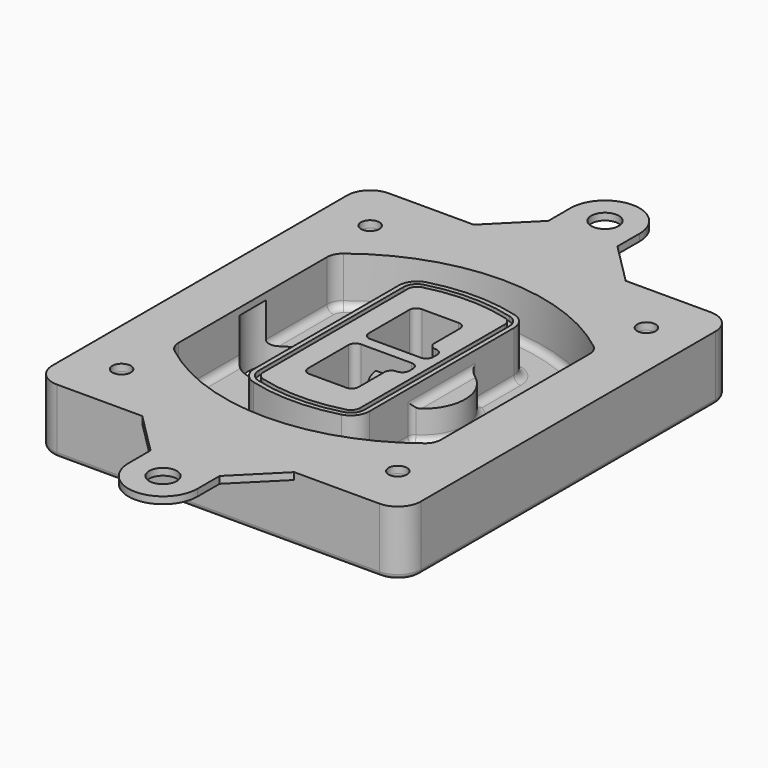
from build123d import *

# Parameters (mm, degrees)
F0_R      = 4
F1_DEPTH  = 25
F2_DEPTH  = 3
F3_DEPTH  = 18
F5_DEPTH  = 21
F6_DEPTH  = 2
F8_DEPTH  = 20
F9_DEPTH  = 16
F10_DEPTH = 25
F7_R      = 6
F7_R_2    = 4
F11_DEPTH = 6
F13_DEPTH = 9
F14_R     = 3
F15_R     = 2
F16_R     = 4
F16_R_2   = 6
F17_DEPTH = 3


with BuildPart() as f1:
    # F0 (on Top) → F1 (new body)
    with BuildSketch(Plane.XY):
        with BuildLine():
            ThreePointArc((-80, -80), (-77.0710678119, -87.0710678119), (-70, -90))
            Line((-70, -90), (70, -90))
            ThreePointArc((70, -90), (77.0710678119, -87.0710678119), (80, -80))
            Line((80, -80), (80, 80))
            ThreePointArc((80, 80), (77.0710678119, 87.0710678119), (70, 90))
            Line((70, 90), (-70, 90))
            ThreePointArc((-70, 90), (-77.0710678119, 87.0710678119), (-80, 80))
            Line((-80, 80), (-80, -80))
        make_face()
        with Locations((-60, -67.5)):
            Circle(F0_R, mode=Mode.SUBTRACT)
        with Locations((60, -67.5)):
            Circle(F0_R, mode=Mode.SUBTRACT)
        with Locations((-60, 67.5)):
            Circle(F0_R, mode=Mode.SUBTRACT)
        with BuildLine():
            ThreePointArc((-64, 40.2934422872), (-62.5820384798, 46.4328484224), (-58.6153846154, 51.3286200352))
            ThreePointArc((-58.6153846154, 51.3286200352), (0, 71.5), (58.6153846154, 51.3286200352))
            ThreePointArc((58.6153846154, 51.3286200352), (62.5820384798, 46.4328484224), (64, 40.2934422872))
            Line((64, 40.2934422872), (64, -40.2934422872))
            ThreePointArc((64, -40.2934422872), (62.5820384798, -46.4328484224), (58.6153846154, -51.3286200352))
            ThreePointArc((58.6153846154, -51.3286200352), (0, -71.5), (-58.6153846154, -51.3286200352))
            ThreePointArc((-58.6153846154, -51.3286200352), (-62.5820384798, -46.4328484224), (-64, -40.2934422872))
            Line((-64, -40.2934422872), (-64, 40.2934422872))
        make_face(mode=Mode.SUBTRACT)
        with Locations((60, 67.5)):
            Circle(F0_R, mode=Mode.SUBTRACT)
        with BuildLine():
            ThreePointArc((58.6153846154, 51.3286200352), (0, 71.5), (-58.6153846154, 51.3286200352))
            ThreePointArc((-58.6153846154, 51.3286200352), (-62.5820384798, 46.4328484224), (-64, 40.2934422872))
            Line((-64, 40.2934422872), (-64, -40.2934422872))
            ThreePointArc((-64, -40.2934422872), (-62.5820384798, -46.4328484224), (-58.6153846154, -51.3286200352))
            ThreePointArc((-58.6153846154, -51.3286200352), (0, -71.5), (58.6153846154, -51.3286200352))
            ThreePointArc((58.6153846154, -51.3286200352), (62.5820384798, -46.4328484224), (64, -40.2934422872))
            Line((64, -40.2934422872), (64, 40.2934422872))
            ThreePointArc((64, 40.2934422872), (62.5820384798, 46.4328484224), (58.6153846154, 51.3286200352))
        make_face()
        with BuildLine():
            Line((-60, -40.2934422872), (-60, 40.2934422872))
            ThreePointArc((-60, 40.2934422872), (-58.9871703427, 44.6787323838), (-56.1538461538, 48.1757121072))
            ThreePointArc((-56.1538461538, 48.1757121072), (0, 67.5), (56.1538461538, 48.1757121072))
            ThreePointArc((56.1538461538, 48.1757121072), (58.9871703427, 44.6787323838), (60, 40.2934422872))
            Line((60, 40.2934422872), (60, -40.2934422872))
            ThreePointArc((60, -40.2934422872), (58.9871703427, -44.6787323838), (56.1538461538, -48.1757121072))
            ThreePointArc((56.1538461538, -48.1757121072), (0, -67.5), (-56.1538461538, -48.1757121072))
            ThreePointArc((-56.1538461538, -48.1757121072), (-58.9871703427, -44.6787323838), (-60, -40.2934422872))
        make_face(mode=Mode.SUBTRACT)
        with BuildLine():
            ThreePointArc((-56.1538461538, 48.1757121072), (-58.9871703427, 44.6787323838), (-60, 40.2934422872))
            Line((-60, 40.2934422872), (-60, -40.2934422872))
            ThreePointArc((-60, -40.2934422872), (-58.9871703427, -44.6787323838), (-56.1538461538, -48.1757121072))
            ThreePointArc((-56.1538461538, -48.1757121072), (0, -67.5), (56.1538461538, -48.1757121072))
            ThreePointArc((56.1538461538, -48.1757121072), (58.9871703427, -44.6787323838), (60, -40.2934422872))
            Line((60, -40.2934422872), (60, 40.2934422872))
            ThreePointArc((60, 40.2934422872), (58.9871703427, 44.6787323838), (56.1538461538, 48.1757121072))
            ThreePointArc((56.1538461538, 48.1757121072), (0, 67.5), (-56.1538461538, 48.1757121072))
        make_face()
        with BuildLine():
            ThreePointArc((54.3076923077, 45.8110311612), (56.2910192399, 43.3631453548), (57, 40.2934422872))
            Line((57, 40.2934422872), (57, -40.2934422872))
            ThreePointArc((57, -40.2934422872), (56.2910192399, -43.3631453548), (54.3076923077, -45.8110311612))
            ThreePointArc((54.3076923077, -45.8110311612), (0, -64.5), (-54.3076923077, -45.8110311612))
            ThreePointArc((-54.3076923077, -45.8110311612), (-56.2910192399, -43.3631453548), (-57, -40.2934422872))
            Line((-57, -40.2934422872), (-57, 40.2934422872))
            ThreePointArc((-57, 40.2934422872), (-56.2910192399, 43.3631453548), (-54.3076923077, 45.8110311612))
            ThreePointArc((-54.3076923077, 45.8110311612), (0, 64.5), (54.3076923077, 45.8110311612))
        make_face(mode=Mode.SUBTRACT)
        with BuildLine():
            Line((57, -40.2934422872), (57, 40.2934422872))
            ThreePointArc((57, 40.2934422872), (56.2910192399, 43.3631453548), (54.3076923077, 45.8110311612))
            ThreePointArc((54.3076923077, 45.8110311612), (0, 64.5), (-54.3076923077, 45.8110311612))
            ThreePointArc((-54.3076923077, 45.8110311612), (-56.2910192399, 43.3631453548), (-57, 40.2934422872))
            Line((-57, 40.2934422872), (-57, -40.2934422872))
            ThreePointArc((-57, -40.2934422872), (-56.2910192399, -43.3631453548), (-54.3076923077, -45.8110311612))
            ThreePointArc((-54.3076923077, -45.8110311612), (0, -64.5), (54.3076923077, -45.8110311612))
            ThreePointArc((54.3076923077, -45.8110311612), (56.2910192399, -43.3631453548), (57, -40.2934422872))
        make_face()
    extrude(amount=-F1_DEPTH)

    # F0 (on Top) → F2 (join)
    with BuildSketch(Plane.XY):
        with BuildLine():
            ThreePointArc((-56.1538461538, 48.1757121072), (-58.9871703427, 44.6787323838), (-60, 40.2934422872))
            Line((-60, 40.2934422872), (-60, -40.2934422872))
            ThreePointArc((-60, -40.2934422872), (-58.9871703427, -44.6787323838), (-56.1538461538, -48.1757121072))
            ThreePointArc((-56.1538461538, -48.1757121072), (0, -67.5), (56.1538461538, -48.1757121072))
            ThreePointArc((56.1538461538, -48.1757121072), (58.9871703427, -44.6787323838), (60, -40.2934422872))
            Line((60, -40.2934422872), (60, 40.2934422872))
            ThreePointArc((60, 40.2934422872), (58.9871703427, 44.6787323838), (56.1538461538, 48.1757121072))
            ThreePointArc((56.1538461538, 48.1757121072), (0, 67.5), (-56.1538461538, 48.1757121072))
        make_face()
        with BuildLine():
            ThreePointArc((54.3076923077, 45.8110311612), (56.2910192399, 43.3631453548), (57, 40.2934422872))
            Line((57, 40.2934422872), (57, -40.2934422872))
            ThreePointArc((57, -40.2934422872), (56.2910192399, -43.3631453548), (54.3076923077, -45.8110311612))
            ThreePointArc((54.3076923077, -45.8110311612), (0, -64.5), (-54.3076923077, -45.8110311612))
            ThreePointArc((-54.3076923077, -45.8110311612), (-56.2910192399, -43.3631453548), (-57, -40.2934422872))
            Line((-57, -40.2934422872), (-57, 40.2934422872))
            ThreePointArc((-57, 40.2934422872), (-56.2910192399, 43.3631453548), (-54.3076923077, 45.8110311612))
            ThreePointArc((-54.3076923077, 45.8110311612), (0, 64.5), (54.3076923077, 45.8110311612))
        make_face(mode=Mode.SUBTRACT)
    extrude(amount=F2_DEPTH)

    # F0 (on Top) → F3 (cut)
    with BuildSketch(Plane.XY):
        with BuildLine():
            Line((57, -40.2934422872), (57, 40.2934422872))
            ThreePointArc((57, 40.2934422872), (56.2910192399, 43.3631453548), (54.3076923077, 45.8110311612))
            ThreePointArc((54.3076923077, 45.8110311612), (0, 64.5), (-54.3076923077, 45.8110311612))
            ThreePointArc((-54.3076923077, 45.8110311612), (-56.2910192399, 43.3631453548), (-57, 40.2934422872))
            Line((-57, 40.2934422872), (-57, -40.2934422872))
            ThreePointArc((-57, -40.2934422872), (-56.2910192399, -43.3631453548), (-54.3076923077, -45.8110311612))
            ThreePointArc((-54.3076923077, -45.8110311612), (0, -64.5), (54.3076923077, -45.8110311612))
            ThreePointArc((54.3076923077, -45.8110311612), (56.2910192399, -43.3631453548), (57, -40.2934422872))
        make_face()
    extrude(amount=-F3_DEPTH, mode=Mode.SUBTRACT)

    # F4 (on face) → F5 (join, through all)
    with BuildSketch(Plane.XY.offset(3)):
        with BuildLine():
            ThreePointArc((-25, -39.2465276821), (-23.3511545998, -44.1109737193), (-19.0842911877, -46.9702398883))
            ThreePointArc((-19.0842911877, -46.9702398883), (0, -49.5), (19.0842911877, -46.9702398883))
            ThreePointArc((19.0842911877, -46.9702398883), (23.3511545998, -44.1109737193), (25, -39.2465276821))
            Line((25, -39.2465276821), (25, 39.2465276821))
            ThreePointArc((25, 39.2465276821), (23.3511545998, 44.1109737193), (19.0842911877, 46.9702398883))
            ThreePointArc((19.0842911877, 46.9702398883), (0, 49.5), (-19.0842911877, 46.9702398883))
            ThreePointArc((-19.0842911877, 46.9702398883), (-23.3511545998, 44.1109737193), (-25, 39.2465276821))
            Line((-25, 39.2465276821), (-25, -39.2465276821))
        make_face()
        with BuildLine():
            ThreePointArc((18.5632183908, 45.0393118368), (21.7633659499, 42.89486221), (23, 39.2465276821))
            Line((23, 39.2465276821), (23, -39.2465276821))
            ThreePointArc((23, -39.2465276821), (21.7633659499, -42.89486221), (18.5632183908, -45.0393118368))
            ThreePointArc((18.5632183908, -45.0393118368), (0, -47.5), (-18.5632183908, -45.0393118368))
            ThreePointArc((-18.5632183908, -45.0393118368), (-21.7633659499, -42.89486221), (-23, -39.2465276821))
            Line((-23, -39.2465276821), (-23, 39.2465276821))
            ThreePointArc((-23, 39.2465276821), (-21.7633659499, 42.89486221), (-18.5632183908, 45.0393118368))
            ThreePointArc((-18.5632183908, 45.0393118368), (0, 47.5), (18.5632183908, 45.0393118368))
        make_face(mode=Mode.SUBTRACT)
        with BuildLine():
            Line((23, -39.2465276821), (23, 39.2465276821))
            ThreePointArc((23, 39.2465276821), (21.7633659499, 42.89486221), (18.5632183908, 45.0393118368))
            ThreePointArc((18.5632183908, 45.0393118368), (0, 47.5), (-18.5632183908, 45.0393118368))
            ThreePointArc((-18.5632183908, 45.0393118368), (-21.7633659499, 42.89486221), (-23, 39.2465276821))
            Line((-23, 39.2465276821), (-23, -39.2465276821))
            ThreePointArc((-23, -39.2465276821), (-21.7633659499, -42.89486221), (-18.5632183908, -45.0393118368))
            ThreePointArc((-18.5632183908, -45.0393118368), (0, -47.5), (18.5632183908, -45.0393118368))
            ThreePointArc((18.5632183908, -45.0393118368), (21.7633659499, -42.89486221), (23, -39.2465276821))
        make_face()
        with BuildLine():
            ThreePointArc((18.0421455939, 43.1083837852), (20.1755772999, 41.6787507007), (21, 39.2465276821))
            Line((21, 39.2465276821), (21, -39.2465276821))
            ThreePointArc((21, -39.2465276821), (20.1755772999, -41.6787507007), (18.0421455939, -43.1083837852))
            ThreePointArc((18.0421455939, -43.1083837852), (0, -45.5), (-18.0421455939, -43.1083837852))
            ThreePointArc((-18.0421455939, -43.1083837852), (-20.1755772999, -41.6787507007), (-21, -39.2465276821))
            Line((-21, -39.2465276821), (-21, 39.2465276821))
            ThreePointArc((-21, 39.2465276821), (-20.1755772999, 41.6787507007), (-18.0421455939, 43.1083837852))
            ThreePointArc((-18.0421455939, 43.1083837852), (0, 45.5), (18.0421455939, 43.1083837852))
        make_face(mode=Mode.SUBTRACT)
        with BuildLine():
            Line((21, -39.2465276821), (21, 39.2465276821))
            ThreePointArc((21, 39.2465276821), (20.1755772999, 41.6787507007), (18.0421455939, 43.1083837852))
            ThreePointArc((18.0421455939, 43.1083837852), (0, 45.5), (-18.0421455939, 43.1083837852))
            ThreePointArc((-18.0421455939, 43.1083837852), (-20.1755772999, 41.6787507007), (-21, 39.2465276821))
            Line((-21, 39.2465276821), (-21, -39.2465276821))
            ThreePointArc((-21, -39.2465276821), (-20.1755772999, -41.6787507007), (-18.0421455939, -43.1083837852))
            ThreePointArc((-18.0421455939, -43.1083837852), (0, -45.5), (18.0421455939, -43.1083837852))
            ThreePointArc((18.0421455939, -43.1083837852), (20.1755772999, -41.6787507007), (21, -39.2465276821))
        make_face()
        with BuildLine():
            Line((-8, -2.5), (14, -2.5))
            ThreePointArc((14, -2.5), (16.1213203436, -3.3786796564), (17, -5.5))
            Line((17, -5.5), (17, -7.5))
            ThreePointArc((17, -7.5), (16.1213203436, -9.6213203436), (14, -10.5))
            ThreePointArc((14, -10.5), (11.8786796564, -11.3786796564), (11, -13.5))
            Line((11, -13.5), (11, -27.5))
            ThreePointArc((11, -27.5), (10.1213203436, -29.6213203436), (8, -30.5))
            Line((8, -30.5), (-8, -30.5))
            ThreePointArc((-8, -30.5), (-10.1213203436, -29.6213203436), (-11, -27.5))
            Line((-11, -27.5), (-11, -5.5))
            ThreePointArc((-11, -5.5), (-10.1213203436, -3.3786796564), (-8, -2.5))
        make_face(mode=Mode.SUBTRACT)
        with BuildLine():
            ThreePointArc((-8, 2.5), (-10.1213203436, 3.3786796564), (-11, 5.5))
            Line((-11, 5.5), (-11, 27.5))
            ThreePointArc((-11, 27.5), (-10.1213203436, 29.6213203436), (-8, 30.5))
            Line((-8, 30.5), (8, 30.5))
            ThreePointArc((8, 30.5), (10.1213203436, 29.6213203436), (11, 27.5))
            Line((11, 27.5), (11, 13.5))
            ThreePointArc((11, 13.5), (11.8786796564, 11.3786796564), (14, 10.5))
            ThreePointArc((14, 10.5), (16.1213203436, 9.6213203436), (17, 7.5))
            Line((17, 7.5), (17, 5.5))
            ThreePointArc((17, 5.5), (16.1213203436, 3.3786796564), (14, 2.5))
            Line((14, 2.5), (-8, 2.5))
        make_face(mode=Mode.SUBTRACT)
    extrude(amount=-F5_DEPTH)

    # F4 (on face) → F6 (cut)
    with BuildSketch(Plane.XY.offset(3)):
        with BuildLine():
            Line((23, -39.2465276821), (23, 39.2465276821))
            ThreePointArc((23, 39.2465276821), (21.7633659499, 42.89486221), (18.5632183908, 45.0393118368))
            ThreePointArc((18.5632183908, 45.0393118368), (0, 47.5), (-18.5632183908, 45.0393118368))
            ThreePointArc((-18.5632183908, 45.0393118368), (-21.7633659499, 42.89486221), (-23, 39.2465276821))
            Line((-23, 39.2465276821), (-23, -39.2465276821))
            ThreePointArc((-23, -39.2465276821), (-21.7633659499, -42.89486221), (-18.5632183908, -45.0393118368))
            ThreePointArc((-18.5632183908, -45.0393118368), (0, -47.5), (18.5632183908, -45.0393118368))
            ThreePointArc((18.5632183908, -45.0393118368), (21.7633659499, -42.89486221), (23, -39.2465276821))
        make_face()
        with BuildLine():
            ThreePointArc((18.0421455939, 43.1083837852), (20.1755772999, 41.6787507007), (21, 39.2465276821))
            Line((21, 39.2465276821), (21, -39.2465276821))
            ThreePointArc((21, -39.2465276821), (20.1755772999, -41.6787507007), (18.0421455939, -43.1083837852))
            ThreePointArc((18.0421455939, -43.1083837852), (0, -45.5), (-18.0421455939, -43.1083837852))
            ThreePointArc((-18.0421455939, -43.1083837852), (-20.1755772999, -41.6787507007), (-21, -39.2465276821))
            Line((-21, -39.2465276821), (-21, 39.2465276821))
            ThreePointArc((-21, 39.2465276821), (-20.1755772999, 41.6787507007), (-18.0421455939, 43.1083837852))
            ThreePointArc((-18.0421455939, 43.1083837852), (0, 45.5), (18.0421455939, 43.1083837852))
        make_face(mode=Mode.SUBTRACT)
    extrude(amount=-F6_DEPTH, mode=Mode.SUBTRACT)

    # F7 (on face) → F8 (join)
    with BuildSketch(Plane(origin=(0, 0, -25), x_dir=(1, 0, 0), z_dir=(0, 0, -1))):
        with BuildLine():
            ThreePointArc((3.28842436, 0), (16.7567035675, 13.4682792075), (30.224982775, 0))
            Line((30.224982775, 0), (35.224982775, 0))
            ThreePointArc((35.224982775, 0), (16.7567035675, 18.4682792075), (-1.71157564, 0))
            Line((-1.71157564, 0), (3.28842436, 0))
        make_face()
        with BuildLine():
            Line((3.28842436, 0), (30.224982775, 0))
            ThreePointArc((30.224982775, 0), (16.7567035675, 13.4682792075), (3.28842436, 0))
        make_face()
        with BuildLine():
            ThreePointArc((3.28842436, 0), (16.7567035675, -13.4682792075), (30.224982775, 0))
            Line((30.224982775, 0), (3.28842436, 0))
        make_face()
        with BuildLine():
            Line((35.224982775, 0), (30.224982775, 0))
            ThreePointArc((30.224982775, 0), (16.7567035675, -13.4682792075), (3.28842436, 0))
            Line((3.28842436, 0), (-1.71157564, 0))
            ThreePointArc((-1.71157564, 0), (16.7567035675, -18.4682792075), (35.224982775, 0))
        make_face()
    extrude(amount=-F8_DEPTH)

    # F7 (on face) → F9 (cut)
    with BuildSketch(Plane(origin=(0, 0, -25), x_dir=(1, 0, 0), z_dir=(0, 0, -1))):
        with BuildLine():
            Line((3.28842436, 0), (30.224982775, 0))
            ThreePointArc((30.224982775, 0), (16.7567035675, 13.4682792075), (3.28842436, 0))
        make_face()
        with BuildLine():
            ThreePointArc((3.28842436, 0), (16.7567035675, -13.4682792075), (30.224982775, 0))
            Line((30.224982775, 0), (3.28842436, 0))
        make_face()
    extrude(amount=-F9_DEPTH, mode=Mode.SUBTRACT)

    # F7 (on face) → F10 (cut)
    with BuildSketch(Plane(origin=(0, 0, -25), x_dir=(1, 0, 0), z_dir=(0, 0, -1))):
        with BuildLine():
            Line((-59.0318229325, 0), (-32.0952645175, 0))
            ThreePointArc((-32.0952645175, 0), (-45.563543725, 13.4682792075), (-59.0318229325, 0))
        make_face()
        with BuildLine():
            ThreePointArc((-59.0318229325, 0), (-45.563543725, -13.4682792075), (-32.0952645175, 0))
            Line((-32.0952645175, 0), (-59.0318229325, 0))
        make_face()
    extrude(amount=-F10_DEPTH, mode=Mode.SUBTRACT)

    # F7 (on face) → F11 (cut)
    with BuildSketch(Plane(origin=(0, 0, -25), x_dir=(1, 0, 0), z_dir=(0, 0, -1))):
        with Locations((60, -67.5)):
            Circle(F7_R)
        with Locations((60, -67.5)):
            Circle(F7_R_2, mode=Mode.SUBTRACT)
        with Locations((60, -67.5)):
            Circle(F7_R)
        with Locations((60, -67.5)):
            Circle(F7_R_2, mode=Mode.SUBTRACT)
        with Locations((-60, -67.5)):
            Circle(F7_R)
        with Locations((-60, -67.5)):
            Circle(F7_R_2, mode=Mode.SUBTRACT)
        with Locations((-60, -67.5)):
            Circle(F7_R)
        with Locations((-60, -67.5)):
            Circle(F7_R_2, mode=Mode.SUBTRACT)
        with Locations((-60, 67.5)):
            Circle(F7_R)
        with Locations((-60, 67.5)):
            Circle(F7_R_2, mode=Mode.SUBTRACT)
        with Locations((-60, 67.5)):
            Circle(F7_R)
        with Locations((-60, 67.5)):
            Circle(F7_R_2, mode=Mode.SUBTRACT)
        with Locations((60, 67.5)):
            Circle(F7_R)
        with Locations((60, 67.5)):
            Circle(F7_R_2, mode=Mode.SUBTRACT)
        with Locations((60, 67.5)):
            Circle(F7_R)
        with Locations((60, 67.5)):
            Circle(F7_R_2, mode=Mode.SUBTRACT)
    extrude(amount=-F11_DEPTH, mode=Mode.SUBTRACT)

    # F12 (on face) → F13 (cut, through all)
    with BuildSketch(Plane(origin=(0, 0, -9), x_dir=(1, 0, 0), z_dir=(0, 0, -1))):
        with BuildLine():
            Line((11, 13.5), (11, 17.5481537753))
            ThreePointArc((11, 17.5481537753), (2.5696536419, 11.8239143813), (-1.5415842455, 2.5))
            Line((-1.5415842455, 2.5), (3.5224848595, 2.5))
            ThreePointArc((3.5224848595, 2.5), (6.1857188154, 8.3455872281), (11.2536447004, 12.2927168648))
            ThreePointArc((11.2536447004, 12.2927168648), (11.0640958889, 12.8831798879), (11, 13.5))
        make_face()
        with BuildLine():
            ThreePointArc((11.2536447004, -12.2927168648), (6.1857188154, -8.3455872281), (3.5224848595, -2.5))
            Line((3.5224848595, -2.5), (-1.5415842455, -2.5))
            ThreePointArc((-1.5415842455, -2.5), (2.5696536419, -11.8239143813), (11, -17.5481537753))
            Line((11, -17.5481537753), (11, -13.5))
            ThreePointArc((11, -13.5), (11.0640958889, -12.8831798879), (11.2536447004, -12.2927168648))
        make_face()
        with BuildLine():
            ThreePointArc((11.2536447004, 12.2927168648), (6.1857188154, 8.3455872281), (3.5224848595, 2.5))
            Line((3.5224848595, 2.5), (14, 2.5))
            ThreePointArc((14, 2.5), (16.1213203436, 3.3786796564), (17, 5.5))
            Line((17, 5.5), (17, 7.5))
            ThreePointArc((17, 7.5), (16.1213203436, 9.6213203436), (14, 10.5))
            ThreePointArc((14, 10.5), (12.3601599782, 10.9878446101), (11.2536447004, 12.2927168648))
        make_face()
        with BuildLine():
            Line((14, -2.5), (3.5224848595, -2.5))
            ThreePointArc((3.5224848595, -2.5), (6.1857188154, -8.3455872281), (11.2536447004, -12.2927168648))
            ThreePointArc((11.2536447004, -12.2927168648), (12.3601599782, -10.9878446101), (14, -10.5))
            ThreePointArc((14, -10.5), (16.1213203436, -9.6213203436), (17, -7.5))
            Line((17, -7.5), (17, -5.5))
            ThreePointArc((17, -5.5), (16.1213203436, -3.3786796564), (14, -2.5))
        make_face()
    extrude(amount=F13_DEPTH, mode=Mode.SUBTRACT)

    # F14
    f14_edges = [f1.edges().sort_by_distance(p)[0] for p in [
        (-57, -23.703476, -18),
        (-57, 23.703476, -18),
        (25, 0, -5),
        (25, 16.526506, -11.5),
        (25, -16.526506, -11.5),
        (25, -27.886517, -18),
        (35.224983, 0, -18),
    ]]
    fillet(f14_edges, radius=F14_R)

    # F15
    f15_edges = [f1.edges().sort_by_distance(p)[0] for p in [
        (0, -90, -25),
    ]]
    fillet(f15_edges, radius=F15_R)

    # F16 (on face) → F17 (join, through all)
    with BuildSketch(Plane.XY):
        with BuildLine():
            Line((70, 90), (32.9955938562, 90))
            Line((32.9955938562, 90), (-33.0044061438, 90))
            Line((-33.0044061438, 90), (-70, 90))
            ThreePointArc((-70, 90), (-77.0710678119, 87.0710678119), (-80, 80))
            Line((-80, 80), (-80, -80))
            ThreePointArc((-80, -80), (-77.0710678119, -87.0710678119), (-70, -90))
            Line((-70, -90), (-33.0044061438, -90))
            Line((-33.0044061438, -90), (32.9955938562, -90))
            Line((32.9955938562, -90), (70, -90))
            ThreePointArc((70, -90), (77.0710678119, -87.0710678119), (80, -80))
            Line((80, -80), (80, 80))
            ThreePointArc((80, 80), (77.0710678119, 87.0710678119), (70, 90))
        make_face()
        with Locations((-60, -67.5)):
            Circle(F16_R, mode=Mode.SUBTRACT)
        with Locations((60, -67.5)):
            Circle(F16_R, mode=Mode.SUBTRACT)
        with Locations((-60, 67.5)):
            Circle(F16_R, mode=Mode.SUBTRACT)
        with BuildLine():
            ThreePointArc((-60, 40.2934422872), (-58.9871703427, 44.6787323838), (-56.1538461538, 48.1757121072))
            ThreePointArc((-56.1538461538, 48.1757121072), (0, 67.5), (56.1538461538, 48.1757121072))
            ThreePointArc((56.1538461538, 48.1757121072), (58.9871703427, 44.6787323838), (60, 40.2934422872))
            Line((60, 40.2934422872), (60, -40.2934422872))
            ThreePointArc((60, -40.2934422872), (58.9871703427, -44.6787323838), (56.1538461538, -48.1757121072))
            ThreePointArc((56.1538461538, -48.1757121072), (0, -67.5), (-56.1538461538, -48.1757121072))
            ThreePointArc((-56.1538461538, -48.1757121072), (-58.9871703427, -44.6787323838), (-60, -40.2934422872))
            Line((-60, -40.2934422872), (-60, 40.2934422872))
        make_face(mode=Mode.SUBTRACT)
        with Locations((60, 67.5)):
            Circle(F16_R, mode=Mode.SUBTRACT)
        with BuildLine():
            Line((14.9955938562, 108), (14.9955938562, 120))
            ThreePointArc((14.9955938562, 120), (-0.0044061438, 135), (-15.0044061438, 120))
            Line((-15.0044061438, 120), (-15.0044061438, 108))
            Line((-15.0044061438, 108), (-33.0044061438, 90))
            Line((-33.0044061438, 90), (32.9955938562, 90))
            Line((32.9955938562, 90), (14.9955938562, 108))
        make_face()
        with Locations((-0.0044061438, 120)):
            Circle(F16_R_2, mode=Mode.SUBTRACT)
        with BuildLine():
            Line((14.9955938562, -108), (32.9955938562, -90))
            Line((32.9955938562, -90), (-33.0044061438, -90))
            Line((-33.0044061438, -90), (-15.0044061438, -108))
            Line((-15.0044061438, -108), (-15.0044061438, -120))
            ThreePointArc((-15.0044061438, -120), (-0.0044061438, -135), (14.9955938562, -120))
            Line((14.9955938562, -120), (14.9955938562, -108))
        make_face()
        with Locations((-0.0044061438, -120)):
            Circle(F16_R_2, mode=Mode.SUBTRACT)
    extrude(amount=F17_DEPTH)


solid = f1.part
